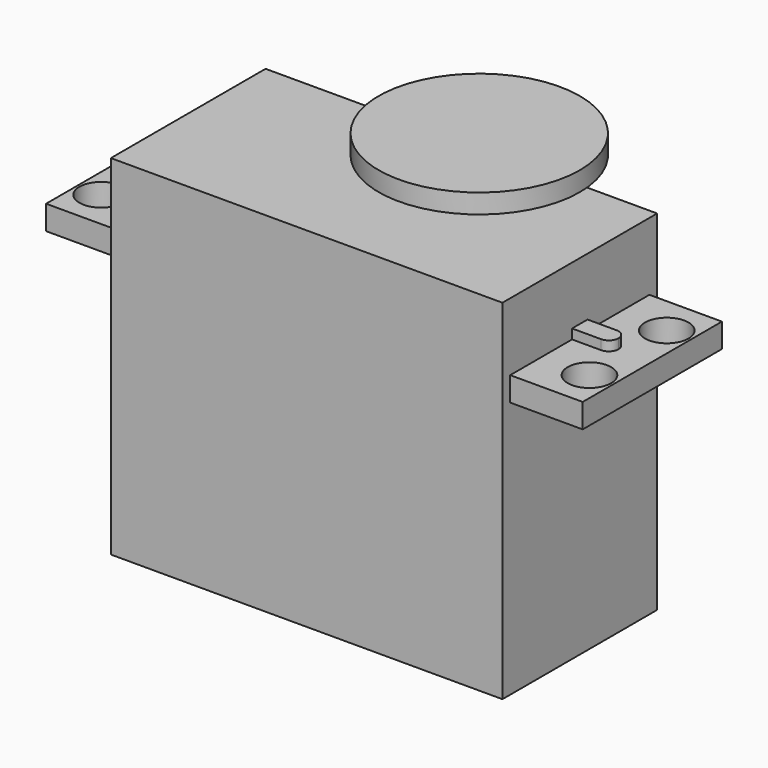
from build123d import *

# Parameters (mm, degrees)
SKETCH001_W  = 55.5
SKETCH001_H  = 18
SKETCH001_R  = 2.25
PAD001_DEPTH = 2.5
SKETCH002_W  = 48.5
SKETCH002_H  = 2
PAD002_DEPTH = 1
FILLET_R     = 0.99
SKETCH003_R  = 10.4
PAD003_DEPTH = 2
SKETCH_W     = 40.5
SKETCH_H     = 20
PAD_DEPTH    = 36.1


with BuildPart() as pad001:
    # Sketch001 → Pad001 (new body)
    with BuildSketch(Plane.XY.offset(26.6)):
        Rectangle(SKETCH001_W, SKETCH001_H)
        with Locations((-25.25, 5)):
            Circle(SKETCH001_R, mode=Mode.SUBTRACT)
        with Locations((-25.25, -5)):
            Circle(SKETCH001_R, mode=Mode.SUBTRACT)
        with Locations((25.25, 5)):
            Circle(SKETCH001_R, mode=Mode.SUBTRACT)
        with Locations((25.25, -5)):
            Circle(SKETCH001_R, mode=Mode.SUBTRACT)
    extrude(amount=PAD001_DEPTH)


with BuildPart() as fillet_body:
    # Sketch002 → Pad002 (new body)
    with BuildSketch(Plane.XY.offset(29.1)):
        Rectangle(SKETCH002_W, SKETCH002_H)
    extrude(amount=PAD002_DEPTH)

    # Fillet
    fillet_edges = [fillet_body.edges().sort_by_distance(p)[0] for p in [
        (-24.25, -1, 29.6),
        (-24.25, 1, 29.6),
        (24.25, -1, 29.6),
        (24.25, 1, 29.6),
    ]]
    fillet(fillet_edges, radius=FILLET_R)


with BuildPart() as pad003:
    # Sketch003 → Pad003 (new body)
    with BuildSketch(Plane.XY.offset(42.1)):
        with Locations((9.85, 0)):
            Circle(SKETCH003_R)
    extrude(amount=PAD003_DEPTH)


with BuildPart() as fusion:
    # Sketch → Pad (new body)
    with BuildSketch(Plane.XY):
        Rectangle(SKETCH_W, SKETCH_H)
    extrude(amount=PAD_DEPTH)

    # Fusion: union Pad001, Fillet body, Pad003
    add(pad001.part)
    add(fillet_body.part)
    add(pad003.part)


solid = fusion.part
